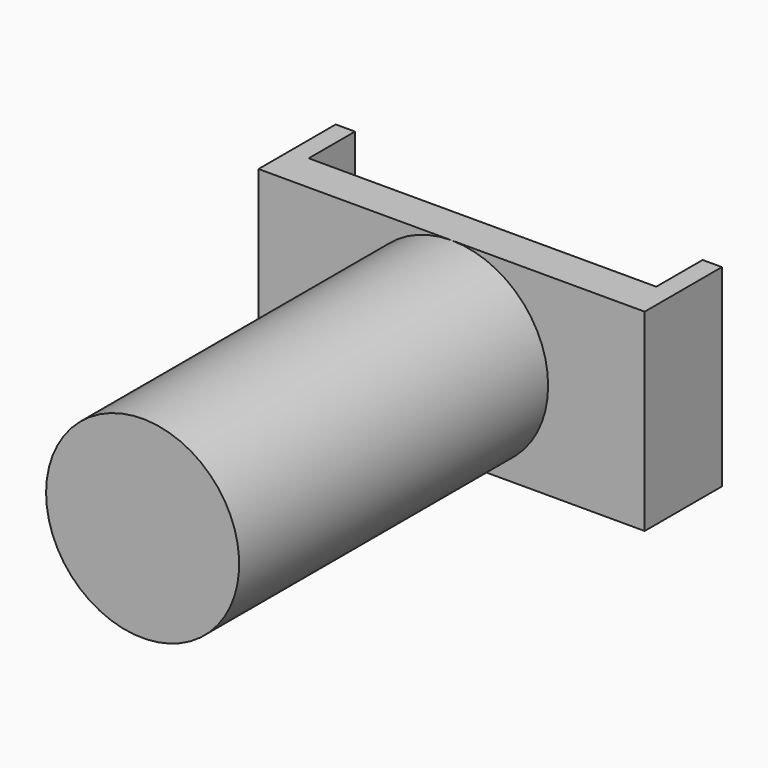
from build123d import *

# Parameters (mm, degrees)
F1_DEPTH = 5
F0_W     = 5
F0_H     = 20


with BuildPart() as f1:
    # F0 (on Top) → F1 (new body, symmetric)
    with BuildSketch(Plane.XY):
        Polygon((0, 10), (5, 10), (10, 10), (10, 15), (9, 15), (9, 12), (-9, 12), (-9, 15), (-10, 15), (-10, 10), (-5, 10), align=None)
    extrude(amount=F1_DEPTH, both=True)

    # F0 (on Top) → F2 (revolve)
    with BuildSketch(Plane.XY):
        with Locations((-2.5, 0)):
            Rectangle(F0_W, F0_H)
    revolve(axis=Axis((0, 0, 0), (0, -1, 0)))


solid = f1.part
